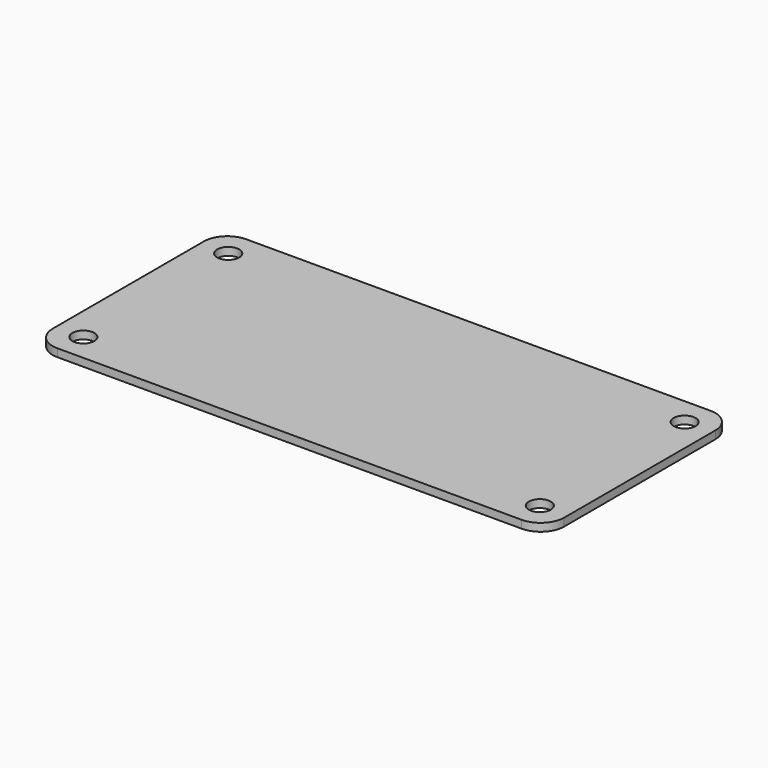
from build123d import *

# Parameters (mm, degrees)
SKETCH015_W            = 65
SKETCH015_H            = 30
PAD012_DEPTH           = 1
FILLET006_R            = 3
SKETCH016_R            = 1.4
POCKET002_DEPTH        = 5
LINEARPATTERN006_COUNT = 2
LINEARPATTERN006_PITCH = 58


with BuildPart() as part:
    # Sketch015 (on Face1 of ReferencePad011) → Pad012 (new body)
    with BuildSketch(Plane.XY.offset(8.5)):
        with Locations((32.5, 15)):
            Rectangle(SKETCH015_W, SKETCH015_H)
    extrude(amount=PAD012_DEPTH)

    # Fillet006
    fillet006_edges = [part.edges().sort_by_distance(p)[0] for p in [
        (0, 0, 9),
        (0, 30, 9),
        (65, 30, 9),
        (65, 0, 9),
    ]]
    fillet(fillet006_edges, radius=FILLET006_R)

    # Sketch016 (on Face5 of Fillet006) → Pocket002 (cut)
    with BuildSketch(Plane.XY.offset(9.5)):
        with Locations((3.5, 3.5)):
            Circle(SKETCH016_R)
        with Locations((3.5, 26.5)):
            Circle(SKETCH016_R)
    pocket002 = extrude(amount=-POCKET002_DEPTH, mode=Mode.SUBTRACT)

    # LinearPattern006: Pocket002 ×2
    with Locations(*[(i * LINEARPATTERN006_PITCH, 0, 0) for i in range(1, LINEARPATTERN006_COUNT)]):
        add(pocket002, mode=Mode.SUBTRACT)


solid = part.part
